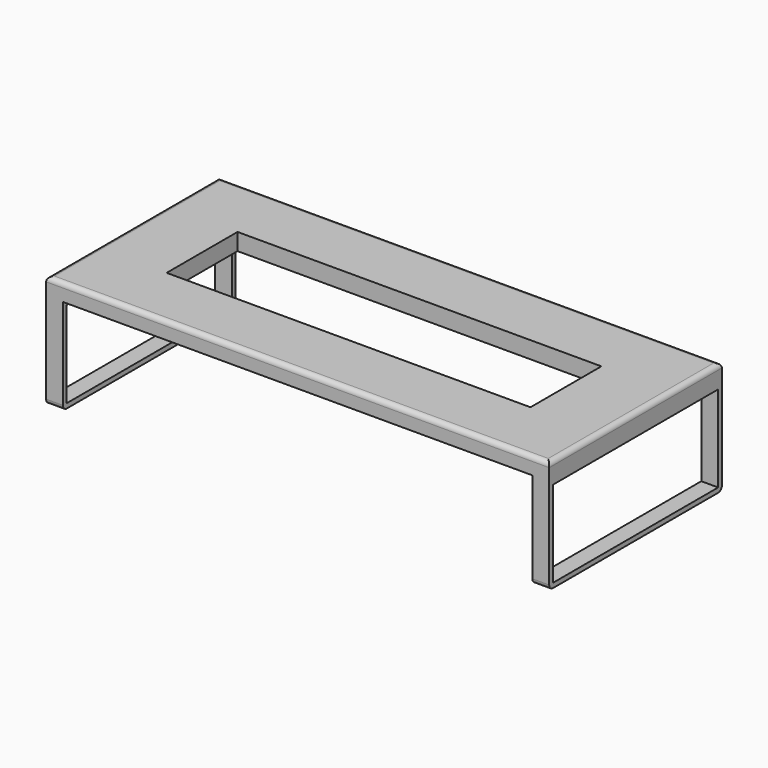
from build123d import *

# Parameters (mm, degrees)
F0_W     = 500
F0_H     = 18
F1_DEPTH = 115
F2_W     = 220
F2_H     = 92
F3_DEPTH = 275
F4_R     = 5
F5_W     = 387.605816
F5_H     = 94.405166
F6_DEPTH = 120.001


with BuildPart() as f1:
    # F0 (on Front) → F1 (new body, symmetric)
    with BuildSketch(Plane.XZ):
        Rectangle(F0_W, F0_H)
        Polygon((-250, -111), (-250, -9), (-250, 9), (-268, 9), (-268, -111), align=None)
        Polygon((250, 9), (250, -9), (250, -111), (268, -111), (268, 9), align=None)
    extrude(amount=F1_DEPTH, both=True)

    # F2 (on Right) → F3 (cut, symmetric)
    with BuildSketch(Plane.YZ):
        with Locations((0, -60)):
            Rectangle(F2_W, F2_H)
    extrude(amount=F3_DEPTH, both=True, mode=Mode.SUBTRACT)

    # F4
    f4_edges = [f1.edges().sort_by_distance(p)[0] for p in [
        (259, 115, -111),
        (-259, 115, -111),
        (-259, -115, -111),
        (259, -115, -111),
        (0, -115, 9),
        (0, 115, 9),
        (-268, 0, 9),
        (268, 0, 9),
    ]]
    fillet(f4_edges, radius=F4_R)

    # F5 (on face) → F6 (cut, through all)
    with BuildSketch(Plane.XY.offset(9)):
        Rectangle(F5_W, F5_H)
    extrude(amount=-F6_DEPTH, mode=Mode.SUBTRACT)


solid = f1.part
